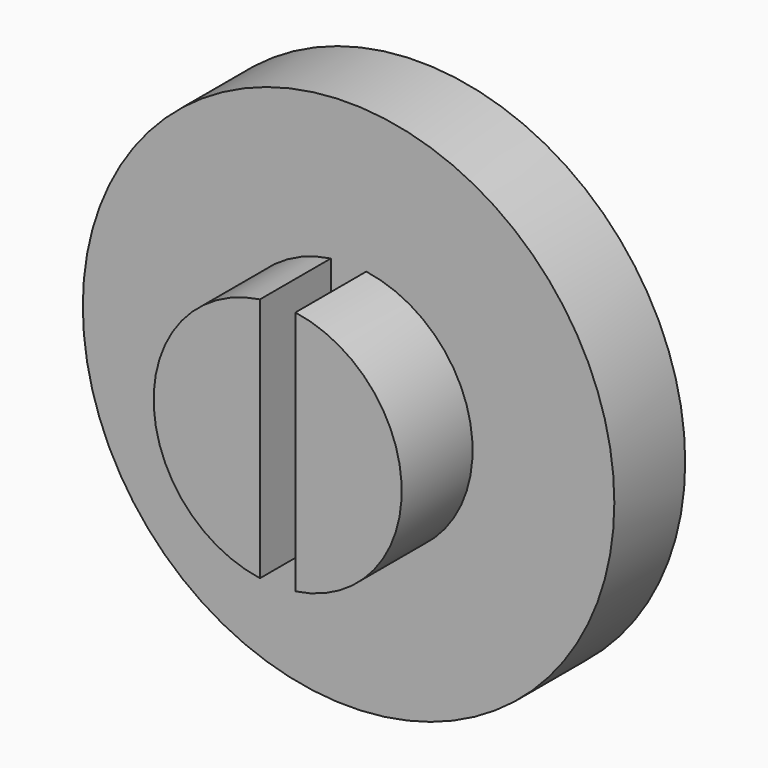
from build123d import *

# Parameters (mm, degrees)
F0_R     = 19.05
F1_DEPTH = 6.35
F3_DEPTH = 38.1
F4_DEPTH = 25.4


with BuildPart() as f1:
    # F0 (on Front) → F1 (new body)
    with BuildSketch(Plane.XZ):
        Circle(F0_R)
    extrude(amount=F1_DEPTH)

    # F2 (on Front) → F3 (join)
    with BuildSketch(Plane.XZ):
        with BuildLine():
            Line((-1.27, -8.798818), (-1.27, 8.798818))
            ThreePointArc((-1.27, 8.798818), (-8.89, 0), (-1.27, -8.798818))
        make_face()
        with BuildLine():
            ThreePointArc((1.27, -8.798818), (8.89, 0), (1.27, 8.798818))
            Line((1.27, 8.798818), (1.27, -8.798818))
        make_face()
    extrude(amount=F3_DEPTH)

    # F3_face (on face) → F4 (cut)
    with BuildSketch(Plane(origin=(4.46805, -38.1, 0), x_dir=(1, 0, 0), z_dir=(0, -1, 0))):
        with BuildLine():
            Line((-3.19805, 8.798818), (-3.19805, -8.798818))
            ThreePointArc((-3.19805, -8.798818), (4.42195, 0), (-3.19805, 8.798818))
        make_face()
        with BuildLine():
            Line((-5.73805, -8.798818), (-5.73805, 8.798818))
            ThreePointArc((-5.73805, 8.798818), (-13.35805, 0), (-5.73805, -8.798818))
        make_face()
    extrude(amount=-F4_DEPTH, mode=Mode.SUBTRACT)


solid = f1.part
